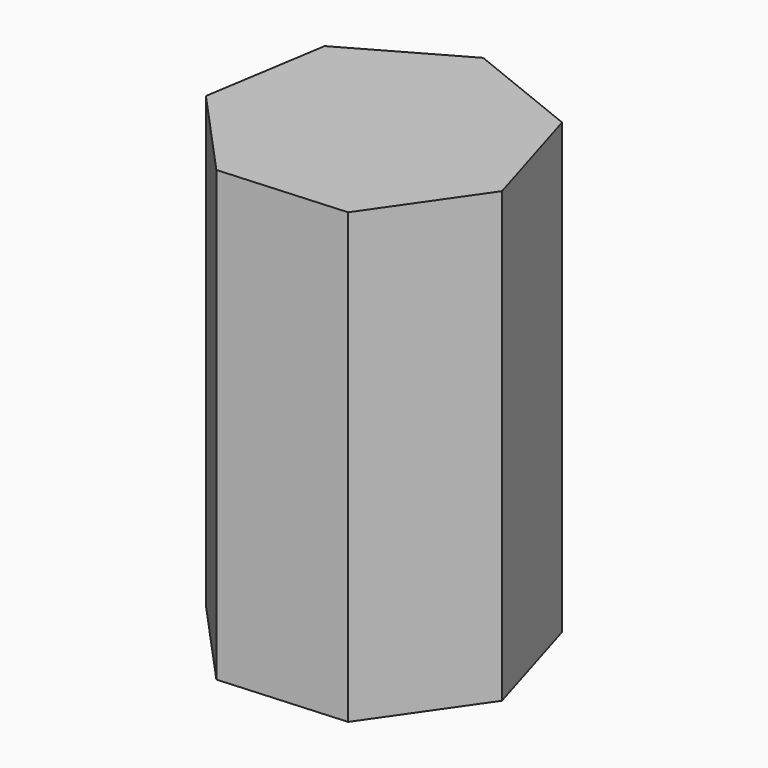
from build123d import *

# Parameters (mm, degrees)
F1_DEPTH = 86.36


with BuildPart() as f1:
    # F0 (on Top) → F1 (new body, symmetric)
    with BuildSketch(Plane.XY):
        Polygon((-53.280343, -15.960735), (-20.741146, -51.607605), (27.416557, -48.392896), (54.929033, -8.737349), (41.078827, 37.497599), (-3.704574, 55.496091), (-45.698355, 31.704894), align=None)
    extrude(amount=F1_DEPTH, both=True)


solid = f1.part
